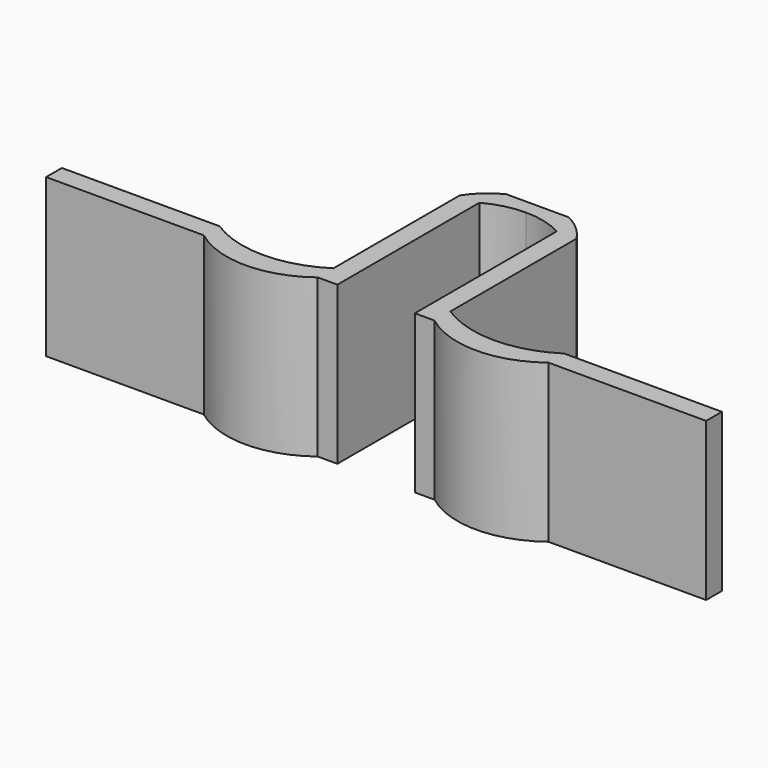
from build123d import *

# Parameters (mm, degrees)
F1_DEPTH = 50.8


with BuildPart() as f1:
    # F0 (on Top) → F1 (new body)
    with BuildSketch(Plane.XY):
        with BuildLine():
            Line((-58.791884, 0), (-109.591884, 0))
            Line((-109.591884, 0), (-109.591884, -6.35))
            Line((-109.591884, -6.35), (-58.791884, -6.35))
            ThreePointArc((-58.791884, -6.35), (-40.457133, -12.559314), (-22.122381, -6.35))
            Line((-22.122381, -6.35), (-15.772381, -6.35))
            Line((-15.772381, -6.35), (-15.772381, 50.8))
            ThreePointArc((-15.772381, 50.8), (-9.731795, 53.153516), (-3.298565, 53.954313))
            ThreePointArc((-3.298565, 53.954313), (3.134665, 53.153516), (9.175251, 50.8))
            Line((9.175251, 50.8), (9.175251, -6.35))
            Line((9.175251, -6.35), (15.525251, -6.35))
            ThreePointArc((15.525251, -6.35), (33.860003, -12.559314), (52.194754, -6.35))
            Line((52.194754, -6.35), (102.994754, -6.35))
            Line((102.994754, -6.35), (102.994754, 0))
            Line((102.994754, 0), (52.194754, 0))
            ThreePointArc((52.194754, 0), (33.860003, -5.398757), (15.525251, 0))
            Line((15.525251, 0), (15.525251, 50.8))
            ThreePointArc((15.525251, 50.8), (11.676108, 55.311784), (6.778271, 58.655927))
            Line((6.778271, 58.655927), (-3.298565, 58.655927))
            Line((-3.298565, 58.655927), (-13.375401, 58.655927))
            ThreePointArc((-13.375401, 58.655927), (-18.273238, 55.311784), (-22.122381, 50.8))
            Line((-22.122381, 50.8), (-22.122381, 0))
            ThreePointArc((-22.122381, 0), (-40.457133, -5.398757), (-58.791884, 0))
        make_face()
    extrude(amount=F1_DEPTH)


solid = f1.part
